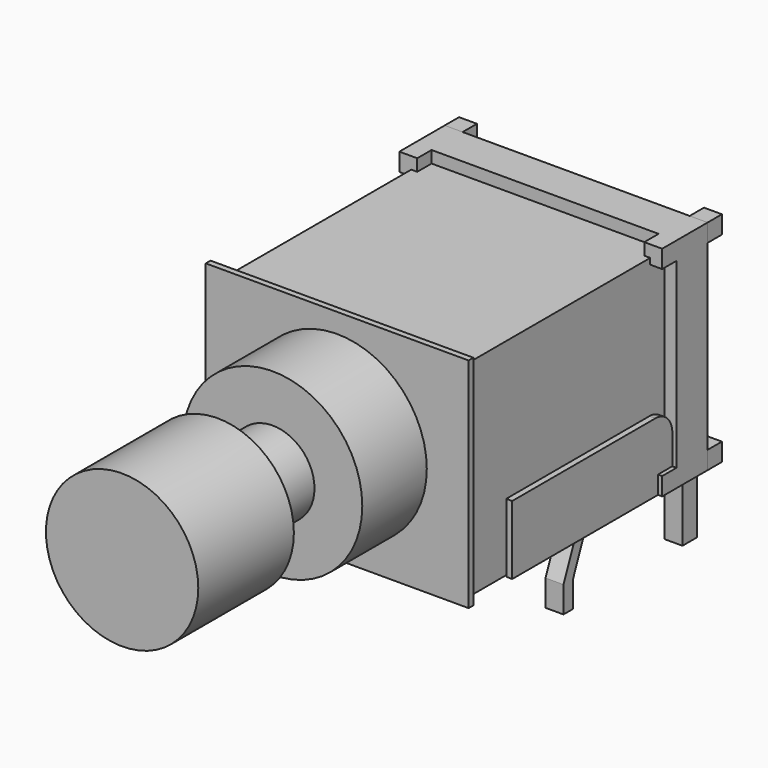
from build123d import *

# Parameters (mm, degrees)
PAD_DEPTH        = 0.3
ARRAY_X_COUNT    = 3
ARRAY_X_PITCH    = 2.54
PAD001_DEPTH     = 0.3
ARRAY001_X_COUNT = 2
ARRAY001_X_PITCH = 5.08
SKETCH003_R      = 3
PAD003_DEPTH     = 2.7
SKETCH004_R      = 1.4
PAD004_DEPTH     = 5.4
SKETCH005_R      = 2.55
PAD005_DEPTH     = 4
SKETCH002_W      = 8.8
SKETCH002_H      = 7.3
PAD002_DEPTH     = 9.8
POCKET_DEPTH     = 0.4
POCKET001_DEPTH  = 0.4
POCKET002_DEPTH  = 0.4
SKETCH009_W      = 0.6
SKETCH009_H      = 0.6
PAD006_DEPTH     = 0.6
SKETCH010_W      = 8.8
SKETCH010_H      = 7.3
PAD007_DEPTH     = 0.2
PAD008_DEPTH     = 0.2
PAD009_DEPTH     = 0.2


with BuildPart() as array3:
    # Sketch → Pad (new body, symmetric)
    with BuildSketch(Plane.YZ):
        with BuildLine():
            Line((-0.3, -3.1), (-0.3, 1.352098))
            ThreePointArc((-0.3, 1.352098), (-0.401898, 1.598102), (-0.647902, 1.7))
            Line((-0.647902, 1.7), (-2.142393, 1.7))
            Line((-2.142393, 1.7), (-2.142393, 2.3))
            Line((-2.142393, 2.3), (-0.341182, 2.3))
            ThreePointArc((0.3, 1.658818), (0.112202, 2.112202), (-0.341182, 2.3))
            Line((0.3, 1.658818), (0.3, -3.1))
            Line((0.3, -3.1), (-0.3, -3.1))
        make_face()
    extrude(amount=PAD_DEPTH, both=True)

    # Array X: Array3 ×3


with BuildPart() as array3_1:
    add(array3.part)
    with Locations(*[(i * ARRAY_X_PITCH, 0, 0) for i in range(1, ARRAY_X_COUNT)]):
        add(array3.part)


with BuildPart() as array001:
    # Sketch001 → Pad001 (new body, symmetric)
    with BuildSketch(Plane.YZ):
        Polygon((-5.28, 0), (-4.82029, -1.109838), (-5.28, -2.219675), (-5.28, -3.1), (-4.88, -3.1), (-4.88, -2.219675), (-4.42029, -1.109838), (-4.88, 0), align=None)
    extrude(amount=PAD001_DEPTH, both=True)

    # Array001 X: Array001 ×2


with BuildPart() as array001_1:
    add(array001.part)
    with Locations(*[(i * ARRAY001_X_PITCH, 0, 0) for i in range(1, ARRAY001_X_COUNT)]):
        add(array001.part)


with BuildPart() as bodycircle:
    # Sketch003 → Pad003 (new body)
    with BuildSketch(Plane.XZ.offset(11.2)):
        with Locations((2.54, 3.65)):
            Circle(SKETCH003_R)
    extrude(amount=PAD003_DEPTH)


with BuildPart() as button:
    # Sketch004 → Pad004 (new body)
    with BuildSketch(Plane.XZ.offset(13.9)):
        with Locations((2.54, 3.65)):
            Circle(SKETCH004_R)
    extrude(amount=PAD004_DEPTH)


with BuildPart() as cap:
    # Sketch005 → Pad005 (new body)
    with BuildSketch(Plane.XZ.offset(20.2)):
        with Locations((2.54, 3.65)):
            Circle(SKETCH005_R)
    extrude(amount=-PAD005_DEPTH)


with BuildPart() as pocket002:
    # Sketch002 → Pad002 (new body)
    with BuildSketch(Plane.XZ.offset(1.2)):
        with Locations((2.54, 3.65)):
            Rectangle(SKETCH002_W, SKETCH002_H)
    extrude(amount=PAD002_DEPTH)

    # Sketch006 → Pocket (cut)
    with BuildSketch(Plane(origin=(0, -1.2, 7.3), x_dir=(-1, 0, 0), z_dir=(0, 0, 1))):
        Polygon((1.26, 1.3), (1.26, 1.9), (1.86, 1.9), (1.86, 10), (-6.94, 10), (-6.94, 1.9), (-6.34, 1.9), (-6.34, 1.3), align=None)
    extrude(amount=-POCKET_DEPTH, mode=Mode.SUBTRACT)

    # Sketch007 → Pocket001 (cut)
    with BuildSketch(Plane(origin=(6.94, -1.2, 0), x_dir=(0, 0, 1), z_dir=(1, 0, 0))):
        Polygon((0, 1.9), (0.6, 1.9), (0.6, 1.3), (6.7, 1.3), (6.7, 1.9), (7.3, 1.9), (7.3, 10), (0, 10), align=None)
    extrude(amount=-POCKET001_DEPTH, mode=Mode.SUBTRACT)

    # Sketch008 → Pocket002 (cut)
    with BuildSketch(Plane(origin=(-1.86, -1.2, 0), x_dir=(0, 0, -1), z_dir=(-1, 0, 0))):
        Polygon((-0.6, 1.3), (-0.6, 1.9), (0, 1.9), (0, 10), (-7.3, 10), (-7.3, 1.9), (-6.7, 1.9), (-6.7, 1.3), align=None)
    extrude(amount=-POCKET002_DEPTH, mode=Mode.SUBTRACT)


with BuildPart() as pad006:
    # Sketch009 → Pad006 (new body)
    with BuildSketch(Plane.XZ.offset(0.6)):
        with Locations((-1.56, 7)):
            Rectangle(SKETCH009_W, SKETCH009_H)
        with Locations((-1.56, 0.3)):
            Rectangle(SKETCH009_W, SKETCH009_H)
        with Locations((6.64, 7)):
            Rectangle(SKETCH009_W, SKETCH009_H)
        with Locations((6.64, 0.3)):
            Rectangle(SKETCH009_W, SKETCH009_H)
    extrude(amount=PAD006_DEPTH)


with BuildPart() as pad007:
    # Sketch010 → Pad007 (new body)
    with BuildSketch(Plane.XZ.offset(11.2)):
        with Locations((2.54, 3.65)):
            Rectangle(SKETCH010_W, SKETCH010_H)
    extrude(amount=-PAD007_DEPTH)


with BuildPart() as pad008:
    # Sketch011 → Pad008 (new body)
    with BuildSketch(Plane.YZ.offset(6.6)):
        with BuildLine():
            Line((-9.2, 0), (-9.2, 2.3))
            Line((-9.2, 2.3), (-3.209045, 2.3))
            ThreePointArc((-2.5, 1.590955), (-2.707674, 2.092326), (-3.209045, 2.3))
            Line((-2.5, 1.590955), (-2.5, 0.570675))
            Line((-2.5, 0.570675), (-3.1, 0.570675))
            Line((-3.1, 0.570675), (-3.1, 0))
            Line((-3.1, 0), (-9.2, 0))
        make_face()
    extrude(amount=PAD008_DEPTH)


with BuildPart() as pad009:
    # Sketch012 → Pad009 (new body)
    with BuildSketch(Plane.YZ.offset(-1.5)):
        with BuildLine():
            Line((-9.2, 0), (-9.2, 2.3))
            Line((-9.2, 2.3), (-3.209045, 2.3))
            ThreePointArc((-2.5, 1.590955), (-2.707674, 2.092326), (-3.209045, 2.3))
            Line((-2.5, 1.590955), (-2.5, 0.570675))
            Line((-2.5, 0.570675), (-3.1, 0.570675))
            Line((-3.1, 0.570675), (-3.1, 0))
            Line((-3.1, 0), (-9.2, 0))
        make_face()
    extrude(amount=-PAD009_DEPTH)


solid = Compound([array3_1.part, array001_1.part, bodycircle.part, button.part, cap.part, pocket002.part, pad006.part, pad007.part, pad008.part, pad009.part])
